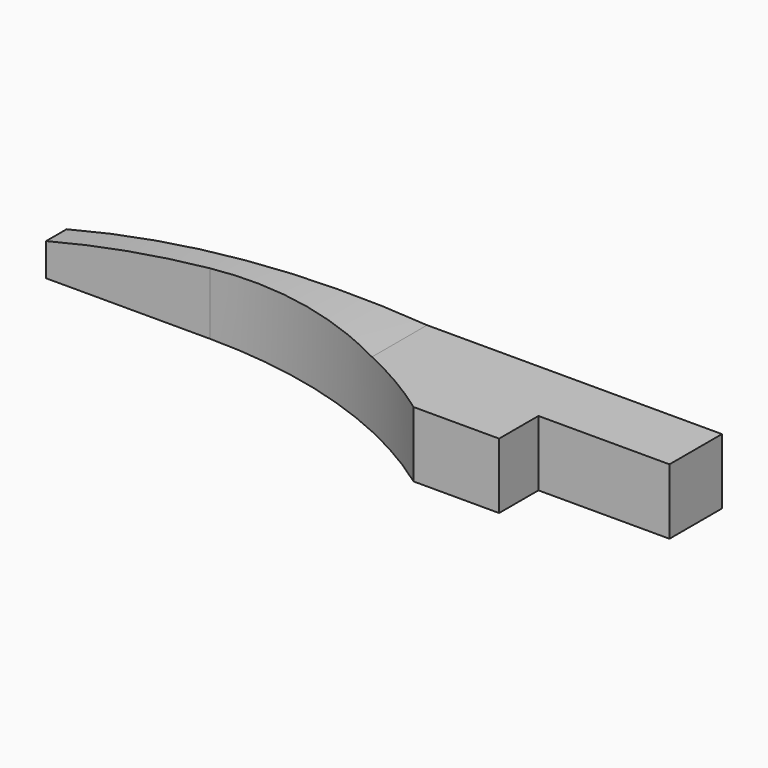
from build123d import *

# Parameters (mm, degrees)
F1_DEPTH = 35
F2_W     = 40
F2_H     = 15
F3_DEPTH = 31.1


with BuildPart() as f1:
    # F0 (on Front) → F1 (new body)
    with BuildSketch(Plane.XZ):
        with BuildLine():
            Line((-131.889763, 0), (68.110237, 0))
            Line((68.110237, 0), (68.110237, 20))
            Line((68.110237, 20), (-21.889763, 20))
            ThreePointArc((-21.889763, 20), (-77.289597, 19.398184), (-131.889763, 10))
            Line((-131.889763, 10), (-131.889763, 0))
        make_face()
    extrude(amount=F1_DEPTH)

    # F2 (on face) → F3 (cut)
    with BuildSketch(Plane(origin=(0, 0, 0), x_dir=(1, 0, 0), z_dir=(0, 0, -1))):
        with BuildLine():
            Line((-131.889763, 35), (-131.889763, 7.830065))
            Line((-131.889763, 7.830065), (-81.889763, 7.830065))
            ThreePointArc((-81.889763, 7.830065), (-37.796469, 14.791877), (2.007012, 35))
            Line((2.007012, 35), (-131.889763, 35))
        make_face()
        with Locations((48.110237, 27.5)):
            Rectangle(F2_W, F2_H)
    extrude(amount=-F3_DEPTH, mode=Mode.SUBTRACT)


solid = f1.part
